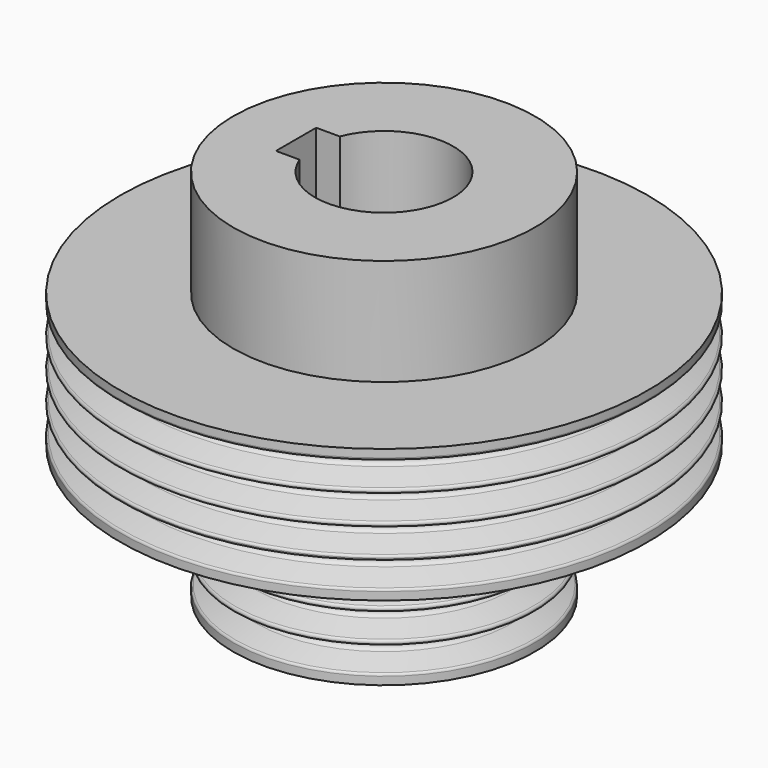
from build123d import *

# Parameters (mm, degrees)
F0_W     = 6.5
F0_H     = 8.48
F0_W_2   = 3.3
F0_H_2   = 6.7194192331
F3_DEPTH = 23


with BuildPart() as f1:
    # F0 (on Front) → F1 (revolve)
    with BuildSketch(Plane.XZ):
        with BuildLine():
            Line((-12, 0), (-5.5, 0))
            Line((-5.5, 0), (-5.5, 10.6194192331))
            Line((-5.5, 10.6194192331), (-12, 10.6194192331))
            Line((-12, 10.6194192331), (-21, 10.6194192331))
            Line((-21, 10.6194192331), (-21, 9.9893224386))
            ThreePointArc((-21, 9.9893224386), (-20.9638304089, 9.8746071513), (-20.8684040287, 9.8013839144))
            Line((-20.8684040287, 9.8013839144), (-19.2031919427, 9.1952962814))
            ThreePointArc((-19.2031919427, 9.1952962814), (-18.94, 8.8194192331), (-19.2031919427, 8.4435421848))
            Line((-19.2031919427, 8.4435421848), (-20.8684040287, 7.8374545517))
            ThreePointArc((-20.8684040287, 7.8374545517), (-21, 7.6495160276), (-20.8684040287, 7.4615775034))
            Line((-20.8684040287, 7.4615775034), (-19.2031919427, 6.8554898704))
            ThreePointArc((-19.2031919427, 6.8554898704), (-18.94, 6.4796128221), (-19.2031919427, 6.1037357737))
            Line((-19.2031919427, 6.1037357737), (-20.8684040287, 5.4976481407))
            ThreePointArc((-20.8684040287, 5.4976481407), (-21, 5.3097096165), (-20.8684040287, 5.1217710924))
            Line((-20.8684040287, 5.1217710924), (-19.2031919427, 4.5156834593))
            ThreePointArc((-19.2031919427, 4.5156834593), (-18.94, 4.139806411), (-19.2031919427, 3.7639293627))
            Line((-19.2031919427, 3.7639293627), (-20.8684040287, 3.1578417297))
            ThreePointArc((-20.8684040287, 3.1578417297), (-20.9638304089, 3.0846184928), (-21, 2.9699032055))
            ThreePointArc((-21, 2.9699032055), (-20.9638304089, 2.8551879182), (-20.8684040287, 2.7819646814))
            Line((-20.8684040287, 2.7819646814), (-19.2031919427, 2.1758770483))
            ThreePointArc((-19.2031919427, 2.1758770483), (-18.94, 1.8), (-19.2031919427, 1.4241229517))
            Line((-19.2031919427, 1.4241229517), (-20.8684040287, 0.8180353186))
            ThreePointArc((-20.8684040287, 0.8180353186), (-20.9638304089, 0.7448120818), (-21, 0.6300967945))
            Line((-21, 0.6300967945), (-21, 0))
            Line((-21, 0), (-12, 0))
        make_face()
        with Locations((-8.75, 14.8594192331)):
            Rectangle(F0_W, F0_H)
        with BuildLine():
            Line((-5.5, -3.9005807669), (-5.5, 0))
            Line((-5.5, 0), (-12, 0))
            Line((-12, 0), (-12, -0.63))
            ThreePointArc((-12, -0.63), (-11.9638304089, -0.7447152873), (-11.8684040287, -0.8179385242))
            Line((-11.8684040287, -0.8179385242), (-10.202926002, -1.4241229517))
            ThreePointArc((-10.202926002, -1.4241229517), (-9.9397340593, -1.8), (-10.202926002, -2.1758770483))
            Line((-10.202926002, -2.1758770483), (-11.8684040287, -2.7820614758))
            ThreePointArc((-11.8684040287, -2.7820614758), (-12, -2.97), (-11.8684040287, -3.1579385242))
            Line((-11.8684040287, -3.1579385242), (-10.202926002, -3.7641229517))
            ThreePointArc((-10.202926002, -3.7641229517), (-9.9397340593, -4.14), (-10.202926002, -4.5158770483))
            Line((-10.202926002, -4.5158770483), (-11.8684040287, -5.1220614758))
            ThreePointArc((-11.8684040287, -5.1220614758), (-12, -5.31), (-11.8684040287, -5.4979385242))
            Line((-11.8684040287, -5.4979385242), (-10.202926002, -6.1041229517))
            ThreePointArc((-10.202926002, -6.1041229517), (-9.9397340593, -6.48), (-10.202926002, -6.8558770483))
            Line((-10.202926002, -6.8558770483), (-11.8684040287, -7.4620614758))
            ThreePointArc((-11.8684040287, -7.4620614758), (-12, -7.65), (-11.8684040287, -7.8379385242))
            Line((-11.8684040287, -7.8379385242), (-10.202926002, -8.4441229517))
            ThreePointArc((-10.202926002, -8.4441229517), (-9.9397340593, -8.82), (-10.202926002, -9.1958770483))
            Line((-10.202926002, -9.1958770483), (-11.8684040287, -9.8020614758))
            ThreePointArc((-11.8684040287, -9.8020614758), (-11.9638304089, -9.8752847127), (-12, -9.99))
            Line((-12, -9.99), (-12, -10.62))
            Line((-12, -10.62), (-5.5, -10.62))
            Line((-5.5, -10.62), (-5.5, -3.9005807669))
        make_face()
        with Locations((-3.85, -7.2602903835)):
            Rectangle(F0_W_2, F0_H_2)
    revolve(axis=Axis((0, 0, 5.3097096165), (0, 0, -1)))

    # F2 (on face) → F3 (cut)
    with BuildSketch(Plane.XY.offset(19.0994192331)):
        with BuildLine():
            Line((-7, -2), (-5.123475383, -2))
            ThreePointArc((-5.123475383, -2), (-5.4050492415, -1.0175670478), (-5.5, 0))
            Line((-5.5, 0), (-7, 0))
            Line((-7, 0), (-7, -2))
        make_face()
        with BuildLine():
            ThreePointArc((-5.5, 0), (-5.4050492415, 1.0175670478), (-5.123475383, 2))
            Line((-5.123475383, 2), (-7, 2))
            Line((-7, 2), (-7, 0))
            Line((-7, 0), (-5.5, 0))
        make_face()
    extrude(amount=-F3_DEPTH, mode=Mode.SUBTRACT)


solid = f1.part
